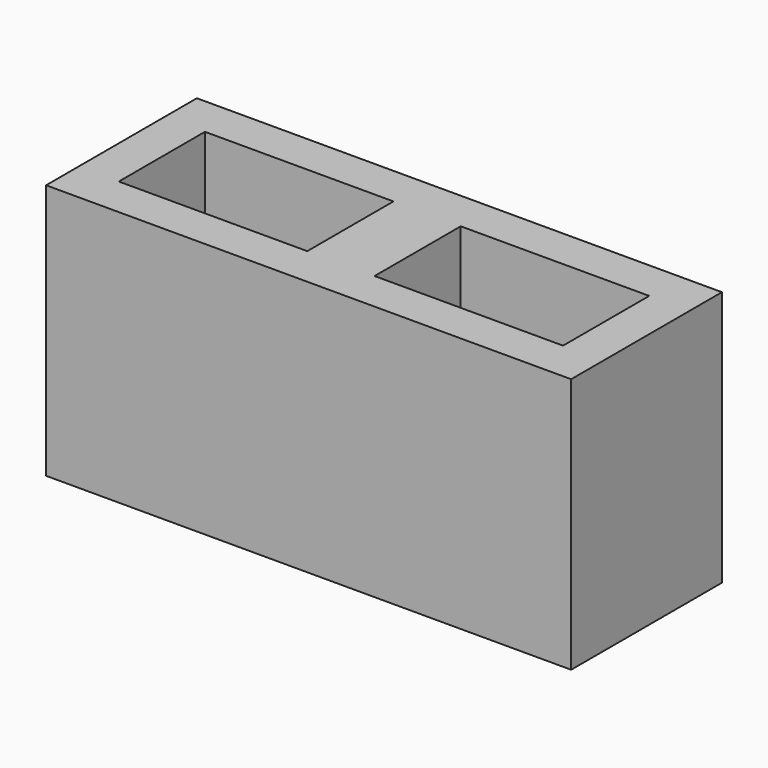
from build123d import *

# Parameters (mm, degrees)
BOX034_W     = 140
BOX034_H     = 80
BOX034_DEPTH = 190
BOX032_W     = 140
BOX032_H     = 80
BOX032_DEPTH = 190
BOX033_W     = 390
BOX033_H     = 140
BOX033_DEPTH = 190


with BuildPart() as cube024:
    # Box034 → Box034 (new body)
    with BuildSketch(Plane(origin=(220, 30, 0), x_dir=(1, 0, 0), z_dir=(0, 0, 1))):
        with Locations((70, 40)):
            Rectangle(BOX034_W, BOX034_H)
    extrude(amount=BOX034_DEPTH)


with BuildPart() as fusion010:
    # Box032 → Box032 (new body)
    with BuildSketch(Plane(origin=(30, 30, 0), x_dir=(1, 0, 0), z_dir=(0, 0, 1))):
        with Locations((70, 40)):
            Rectangle(BOX032_W, BOX032_H)
    extrude(amount=BOX032_DEPTH)

    # Fusion010: union Cube024
    add(cube024.part)


with BuildPart() as cut007:
    # Box033 → Box033 (new body)
    with BuildSketch(Plane.XY):
        with Locations((195, 70)):
            Rectangle(BOX033_W, BOX033_H)
    extrude(amount=BOX033_DEPTH)

    # Cut007: cut Fusion010
    add(fusion010.part, mode=Mode.SUBTRACT)


with BuildPart() as cut007_1:
    # Cut007 placement: moved
    add(cut007.part.moved(Location((630, 445, -390))))


solid = cut007_1.part
